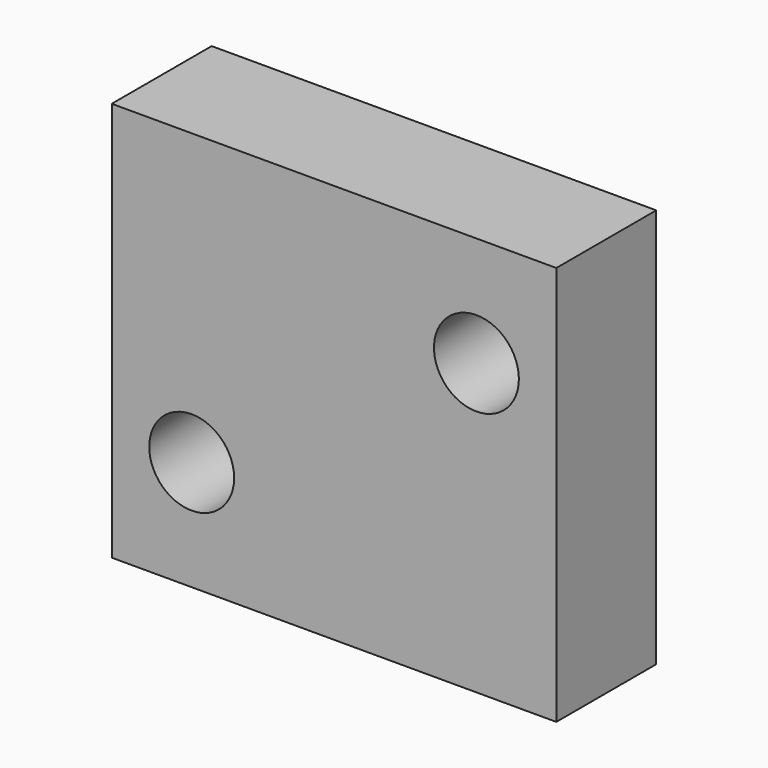
from build123d import *

# Parameters (mm, degrees)
F0_W     = 17.8
F0_H     = 16
F1_DEPTH = 5
F2_R     = 1.7
F3_DEPTH = 5.001


with BuildPart() as f1:
    # F0 (on Front) → F1 (new body)
    with BuildSketch(Plane.XZ):
        with Locations((8.9, -8)):
            Rectangle(F0_W, F0_H)
    extrude(amount=-F1_DEPTH)

    # F2 (on face) → F3 (cut, through all)
    with BuildSketch(Plane.XZ):
        with Locations((3.2, -11.6)):
            Circle(F2_R)
        with Locations((14.6, -4.4)):
            Circle(F2_R)
    extrude(amount=-F3_DEPTH, mode=Mode.SUBTRACT)


solid = f1.part
